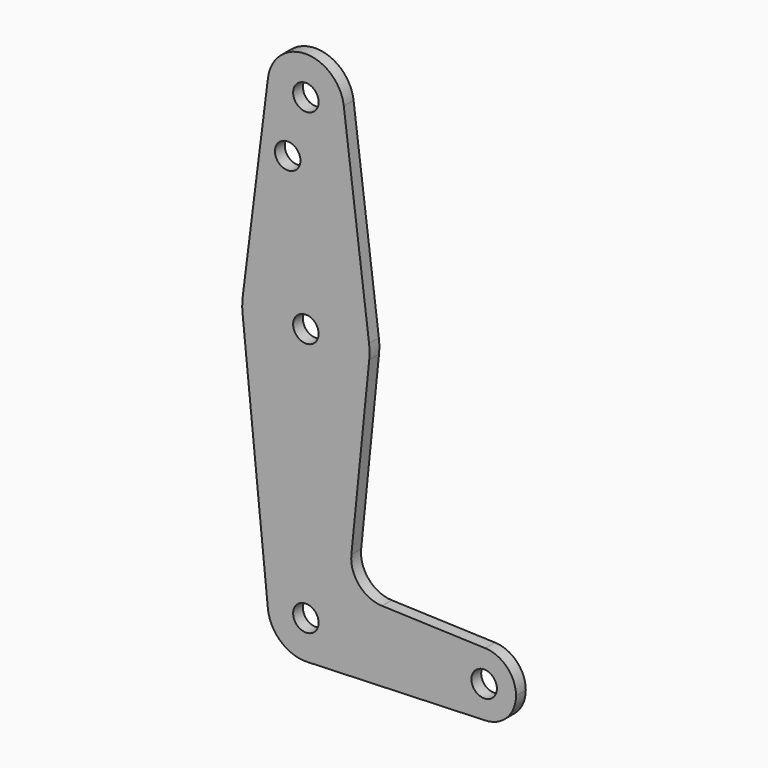
from build123d import *

# Parameters (mm, degrees)
F0_R     = 3.175
F1_DEPTH = 3.048


with BuildPart() as f1:
    # F0 (on Front) → F1 (new body)
    with BuildSketch(Plane.XZ):
        with BuildLine():
            Line((-60.939111, 26.717675), (-54.621008, -36.079847))
            ThreePointArc((-54.621008, -36.079847), (-51.405857, -42.303595), (-44.803675, -44.645267))
            Line((-44.803675, -44.645267), (-0.410372, -43.05878))
            ThreePointArc((-0.410372, -43.05878), (-8.631354, -35.126343), (-0.410372, -27.193907))
            Line((-0.410372, -27.193907), (-26.174278, -26.27318))
            ThreePointArc((-26.174278, -26.27318), (-31.880955, -23.554738), (-33.800607, -17.532195))
            Line((-33.800607, -17.532195), (-29.348596, 26.717675))
            ThreePointArc((-29.348596, 26.717675), (-29.270083, 28.504399), (-29.393037, 30.288616))
            Line((-29.393037, 30.288616), (-35.693364, 80.362718))
            ThreePointArc((-35.693364, 80.362718), (-45.143854, 88.698657), (-54.594344, 80.362718))
            Line((-54.594344, 80.362718), (-60.89467, 30.288616))
            ThreePointArc((-60.89467, 30.288616), (-61.017625, 28.504399), (-60.939111, 26.717675))
        make_face()
        with Locations((-45.143854, -35.126343)):
            Circle(F0_R, mode=Mode.SUBTRACT)
        with Locations((-45.143854, 28.306847)):
            Circle(F0_R, mode=Mode.SUBTRACT)
        with Locations((-49.674477, 64.832047)):
            Circle(F0_R, mode=Mode.SUBTRACT)
        with Locations((-45.143854, 79.173657)):
            Circle(F0_R, mode=Mode.SUBTRACT)
        with BuildLine():
            ThreePointArc((-0.410372, -27.193907), (-8.631354, -35.126343), (-0.410372, -43.05878))
            ThreePointArc((-0.410372, -43.05878), (5.018153, -40.637866), (7.243646, -35.126343))
            ThreePointArc((7.243646, -35.126343), (5.018153, -29.614821), (-0.410372, -27.193907))
        make_face()
        with Locations((-0.693854, -35.126343)):
            Circle(F0_R, mode=Mode.SUBTRACT)
    extrude(amount=F1_DEPTH)


solid = f1.part
